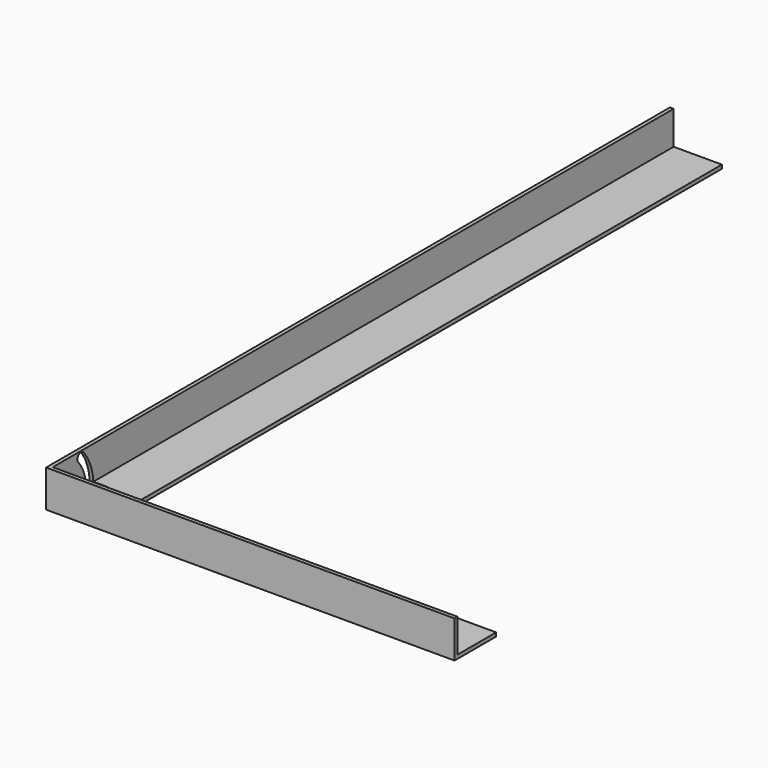
from build123d import *

# Parameters (mm, degrees)
PAD_DEPTH       = 100
SKETCH001_W     = 1090
SKETCH001_H     = 2090
POCKET_DEPTH    = 90
POCKET001_DEPTH = 50


with BuildPart() as part:
    # Sketch → Pad (new body)
    with BuildSketch(Plane.XY):
        Polygon((75, 0), (75, 2100), (215, 2100), (215, 140), (1175, 140), (1175, 0), align=None)
    extrude(amount=PAD_DEPTH)

    # Sketch001 (on Face8 of Pad) → Pocket (cut)
    with BuildSketch(Plane.XY.offset(100)):
        with Locations((630, 1055)):
            Rectangle(SKETCH001_W, SKETCH001_H)
    extrude(amount=-POCKET_DEPTH, mode=Mode.SUBTRACT)

    # Sketch002 (on Face1 of Pocket) → Pocket001 (cut)
    with BuildSketch(Plane(origin=(75, 0, 0), x_dir=(0, -1, 0), z_dir=(-1, 0, 0))):
        with BuildLine():
            ThreePointArc((-95.588953, 77.406408), (-97.362834, 94.284037), (-114.240456, 92.510097))
            ThreePointArc((-114.240456, 92.510097), (-138.568299, 49.069608), (-147, 0))
            Line((-147, 0), (-123, 0))
            ThreePointArc((-95.588953, 77.406408), (-115.944903, 41.058244), (-123, 0))
        make_face()
    extrude(amount=-POCKET001_DEPTH, mode=Mode.SUBTRACT)


solid = part.part
